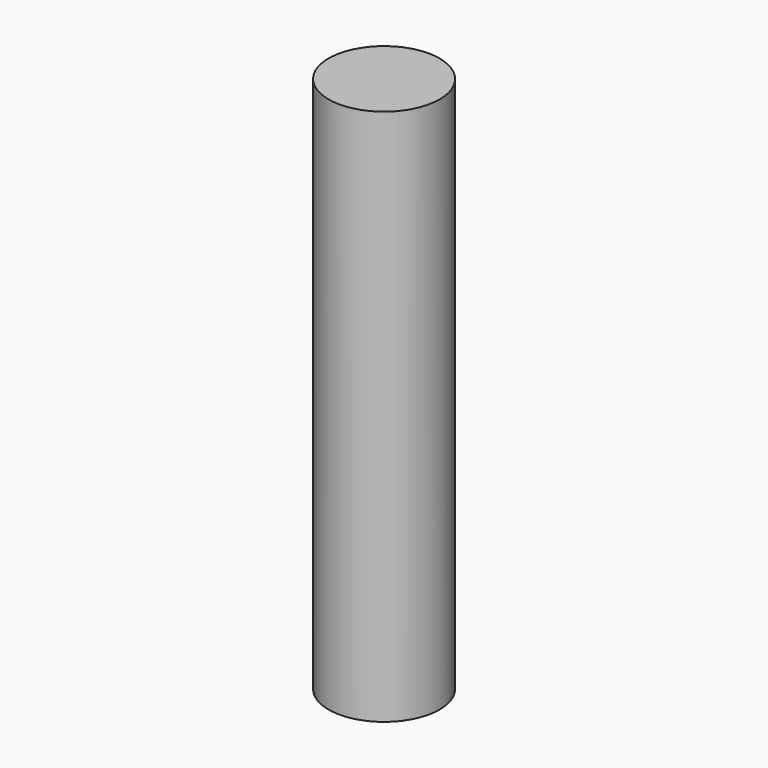
from build123d import *

# Parameters (mm, degrees)
CYLINDER_R     = 1.5494
CYLINDER_DEPTH = 15


with BuildPart() as part:
    # Cylinder → Cylinder (new body)
    with BuildSketch(Plane.XY.offset(-2.5)):
        Circle(CYLINDER_R)
    extrude(amount=CYLINDER_DEPTH)


solid = part.part
